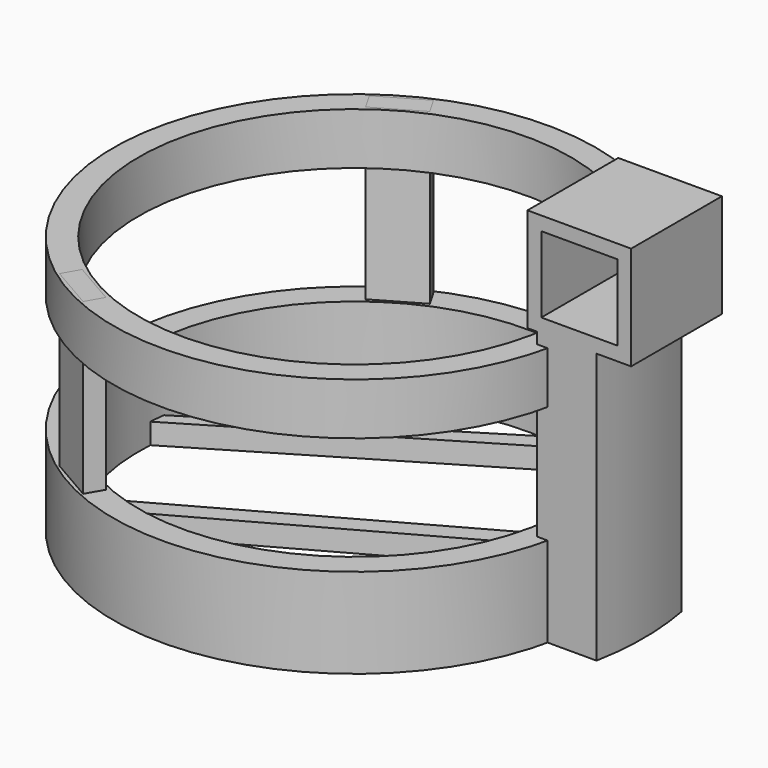
from build123d import *

# Parameters (mm, degrees)
F0_R      = 13.965768
F0_R_2    = 12.5
F1_DEPTH  = 5.2
F3_DEPTH  = 1.2
F5_R      = 13.965768
F5_R_2    = 12.5
F6_DEPTH  = 3
F7_W      = 1.10313
F7_H      = 2.9336
F8_DEPTH  = 15
F10_DEPTH = 17.6
F11_W     = 6
F11_H     = 6
F12_DEPTH = 3.067493
F13_W     = 6
F13_H     = 6
F14_DEPTH = 3.5
F15_W     = 4.4
F15_H     = 4.4
F16_DEPTH = 25


with BuildPart() as f1:
    # F0 (on Top) → F1 (new body)
    with BuildSketch(Plane.XY):
        Circle(F0_R)
        Circle(F0_R_2, mode=Mode.SUBTRACT)
    extrude(amount=F1_DEPTH)

    # F2 (on Top) → F3 (join)
    with BuildSketch(Plane.XY):
        Polygon((5.791257, 11.718208), (4.625045, 12.227155), (-13.397259, 1.054958), (-13.397259, 0.250499), align=None)
        Polygon((11.866841, 5.348552), (-11.179983, -7.435048), (-10.662637, -8.362845), (12.382109, 4.419604), align=None)
        Polygon((13.070082, -2.68876), (-4.980911, -12.701276), (-3.92895, -13.257451), (12.413866, -4.192426), align=None)
    extrude(amount=F3_DEPTH)


with BuildPart() as f6:
    # F5 (on offset) → F6 (new body)
    with BuildSketch(Plane.XY.offset(15)):
        Circle(F5_R)
        Circle(F5_R_2, mode=Mode.SUBTRACT)
    extrude(amount=-F6_DEPTH)


with BuildPart() as f8:
    # F7 (on Top) → F8 (new body, through all)
    with BuildSketch(Plane.XY):
        with Locations((13.189981, -0.036631)):
            Rectangle(F7_W, F7_H)
        Polygon((-5.568764, 12.652244), (-8.109336, 11.185444), (-7.557771, 10.230105), (-5.017199, 11.696905), align=None)
        Polygon((-8.172783, -11.148813), (-5.63221, -12.615613), (-5.080645, -11.660274), (-7.621218, -10.193474), align=None)
    extrude(amount=F8_DEPTH)


with BuildPart() as f10:
    # F9 (on Top) → F10 (new body)
    with BuildSketch(Plane.XY):
        with BuildLine():
            Line((13.002994, -3.067493), (16.448344, -3.067493))
            ThreePointArc((16.448344, -3.067493), (16.731931, 0), (16.448344, 3.067493))
            Line((16.448344, 3.067493), (13.002994, 3.067493))
            Line((13.002994, 3.067493), (13.002994, 0))
            Line((13.002994, 0), (13.002994, -3.067493))
        make_face()
    extrude(amount=F10_DEPTH)

    # F11 (on Front) → F12 (join, through all)
    with BuildSketch(Plane.XZ):
        with Locations((15.44897, 18.643515)):
            Rectangle(F11_W, F11_H)
    extrude(amount=F12_DEPTH)

    # F13 (on Front) → F14 (join)
    with BuildSketch(Plane.XZ):
        with Locations((15.44897, 18.643515)):
            Rectangle(F13_W, F13_H)
        with Locations((15.44897, 18.643515)):
            Rectangle(F13_W, F13_H)
    extrude(amount=-F14_DEPTH)

    # F15 (on face) → F16 (cut)
    with BuildSketch(Plane(origin=(0, 3.5, 0), x_dir=(-1, 0, 0), z_dir=(0, 1, 0))):
        with Locations((-15.44897, 18.643515)):
            Rectangle(F15_W, F15_H)
    extrude(amount=-F16_DEPTH, mode=Mode.SUBTRACT)


solid = Compound([f1.part, f6.part, f8.part, f10.part])
